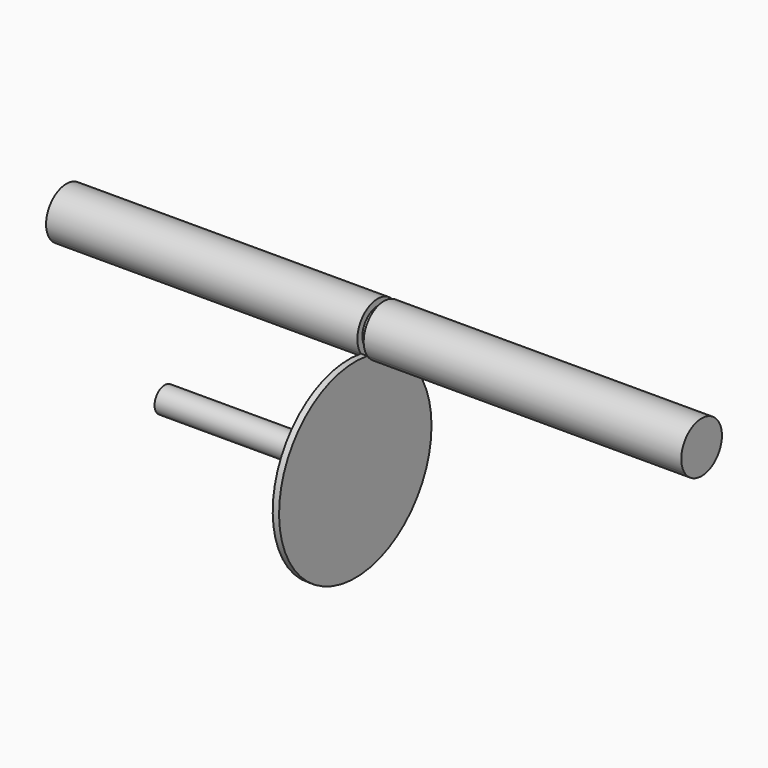
from build123d import *

# Parameters (mm, degrees)
F1_DEPTH      = 50
F1_DEPTH_BACK = 50
F2_DEPTH      = 1
F0_R          = 2
F3_DEPTH      = 1
F4_DEPTH      = 30


with BuildPart() as f1:
    # F0 (on Right) → F1 (new body, two sides)
    with BuildSketch(Plane.YZ) as f1_sk:
        with BuildLine():
            ThreePointArc((1.2827379971, -3.7887442815), (3.250457813, -2.3312065558), (4, 0))
            ThreePointArc((4, 0), (-1.1928211206, 3.8180070422), (-3.2885888871, -2.2770997192))
            ThreePointArc((-3.2885888871, -2.2770997192), (-2.1037180265, -2.5153956948), (-0.9418779147, -2.848309322))
            ThreePointArc((-0.9418779147, -2.848309322), (0.1893888641, -3.2736793631), (1.2827379971, -3.7887442815))
        make_face()
        with BuildLine():
            ThreePointArc((3, 0), (1.7570381692, -2.4316284404), (-0.9418779147, -2.848309322))
            ThreePointArc((-0.9418779147, -2.848309322), (-1.7570381692, 2.4316284404), (3, 0))
        make_face(mode=Mode.SUBTRACT)
        with BuildLine():
            ThreePointArc((1.2827379971, -3.7887442815), (3.250457813, -2.3312065558), (4, 0))
            ThreePointArc((4, 0), (-1.1928211206, 3.8180070422), (-3.2885888871, -2.2770997192))
            ThreePointArc((-3.2885888871, -2.2770997192), (-2.1037180265, -2.5153956948), (-0.9418779147, -2.848309322))
            ThreePointArc((-0.9418779147, -2.848309322), (0.1893888641, -3.2736793631), (1.2827379971, -3.7887442815))
        make_face()
        with BuildLine():
            ThreePointArc((3, 0), (1.7570381692, -2.4316284404), (-0.9418779147, -2.848309322))
            ThreePointArc((-0.9418779147, -2.848309322), (-1.7570381692, 2.4316284404), (3, 0))
        make_face(mode=Mode.SUBTRACT)
        with BuildLine():
            ThreePointArc((3, 0), (-1.7570381692, 2.4316284404), (-0.9418779147, -2.848309322))
            ThreePointArc((-0.9418779147, -2.848309322), (1.7570381692, -2.4316284404), (3, 0))
        make_face()
        with BuildLine():
            ThreePointArc((-0.9418779147, -2.848309322), (-2.1037180265, -2.5153956948), (-3.2885888871, -2.2770997192))
            ThreePointArc((-3.2885888871, -2.2770997192), (-1.255837079, -3.7977458092), (1.2827379971, -3.7887442815))
            ThreePointArc((1.2827379971, -3.7887442815), (0.1893888641, -3.2736793631), (-0.9418779147, -2.848309322))
        make_face()
    extrude(amount=F1_DEPTH)
    extrude(f1_sk.sketch, amount=-F1_DEPTH_BACK)

    # F0 (on Right) → F2 (cut)
    with BuildSketch(Plane.YZ):
        with BuildLine():
            ThreePointArc((1.2827379971, -3.7887442815), (3.250457813, -2.3312065558), (4, 0))
            ThreePointArc((4, 0), (-1.1928211206, 3.8180070422), (-3.2885888871, -2.2770997192))
            ThreePointArc((-3.2885888871, -2.2770997192), (-2.1037180265, -2.5153956948), (-0.9418779147, -2.848309322))
            ThreePointArc((-0.9418779147, -2.848309322), (0.1893888641, -3.2736793631), (1.2827379971, -3.7887442815))
        make_face()
        with BuildLine():
            ThreePointArc((3, 0), (1.7570381692, -2.4316284404), (-0.9418779147, -2.848309322))
            ThreePointArc((-0.9418779147, -2.848309322), (-1.7570381692, 2.4316284404), (3, 0))
        make_face(mode=Mode.SUBTRACT)
        with BuildLine():
            ThreePointArc((-0.9418779147, -2.848309322), (-2.1037180265, -2.5153956948), (-3.2885888871, -2.2770997192))
            ThreePointArc((-3.2885888871, -2.2770997192), (-1.255837079, -3.7977458092), (1.2827379971, -3.7887442815))
            ThreePointArc((1.2827379971, -3.7887442815), (0.1893888641, -3.2736793631), (-0.9418779147, -2.848309322))
        make_face()
    extrude(amount=-F2_DEPTH, mode=Mode.SUBTRACT)


with BuildPart() as f3:
    # F0 (on Right) → F3 (new body)
    with BuildSketch(Plane.YZ):
        with BuildLine():
            ThreePointArc((1.2827379971, -3.7887442815), (-1.255837079, -3.7977458092), (-3.2885888871, -2.2770997192))
            ThreePointArc((-3.2885888871, -2.2770997192), (-17.0626683803, -26.8253538295), (9.3487331446, -17.0898561413))
            ThreePointArc((9.3487331446, -17.0898561413), (7.1746848205, -9.3120053066), (1.2827379971, -3.7887442815))
        make_face()
        with Locations((-5.6512668554, -17.0898561413)):
            Circle(F0_R, mode=Mode.SUBTRACT)
    extrude(amount=-F3_DEPTH)

    # F0 (on Right) → F4 (join)
    with BuildSketch(Plane.YZ):
        with Locations((-5.6512668554, -17.0898561413)):
            Circle(F0_R)
    extrude(amount=-F4_DEPTH)


solid = Compound([f1.part, f3.part])
